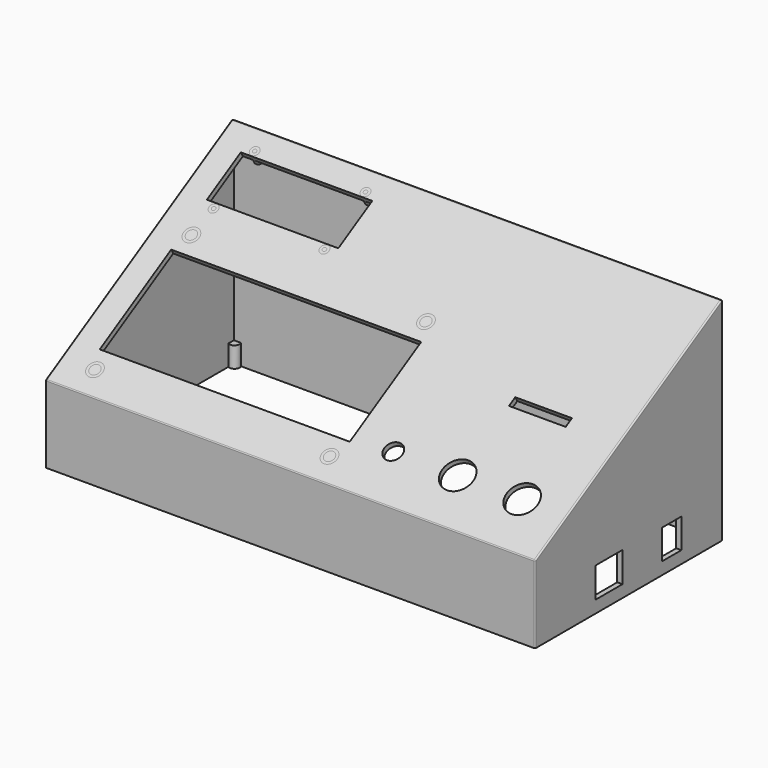
from build123d import *

# Parameters (mm, degrees)
F1_DEPTH  = 190
F2_T      = -2
F3_W      = 51
F3_H      = 19
F3_W_2    = 97
F3_H_2    = 40
F4_DEPTH  = 2
F5_R      = 3.5
F5_R_2    = 6
F6_DEPTH  = 2
F7_W      = 9.5
F7_H      = 11.5
F7_W_2    = 13.1
F7_H_2    = 11.7
F8_DEPTH  = 2
F9_W      = 22
F9_H      = 3.5
F10_DEPTH = 2
F11_R     = 1.75
F11_R_2   = 0.75
F12_DEPTH = 4.5
F13_R     = 3
F13_R_2   = 2
F14_DEPTH = 4.5
F15_R     = 2
F16_DEPTH = 8
F17_R     = 0.5


with BuildPart() as f1:
    # F0 (on Right) → F1 (new body)
    with BuildSketch(Plane.YZ):
        Polygon((0, 30), (0, 0), (90.9326673974, 0), (90.9326673974, 82.5), align=None)
    extrude(amount=F1_DEPTH)

    # F2
    f2_openings = [f1.faces().sort_by_distance(p)[0] for p in [
        (95, 45.466334, 0),
    ]]
    offset(amount=F2_T, openings=f2_openings)

    # F3 (on face) → F4 (cut)
    with BuildSketch(Plane(origin=(0, -12.9903810568, 22.5), x_dir=(1, 0, 0), z_dir=(0, -0.5, 0.8660254038))):
        with Locations((35.5, 100.5)):
            Rectangle(F3_W, F3_H)
        with Locations((58.5, 51)):
            Rectangle(F3_W_2, F3_H_2)
    extrude(amount=-F4_DEPTH, mode=Mode.SUBTRACT)

    # F5 (on face) → F6 (cut)
    with BuildSketch(Plane(origin=(0, -12.9903810568, 22.5), x_dir=(1, 0, 0), z_dir=(0, -0.5, 0.8660254038))):
        with Locations((122.5, 33)):
            Circle(F5_R)
        with Locations((147.5, 33)):
            Circle(F5_R_2)
        with Locations((172.5, 33)):
            Circle(F5_R_2)
    extrude(amount=-F6_DEPTH, mode=Mode.SUBTRACT)

    # F7 (on face) → F8 (cut)
    with BuildSketch(Plane.YZ.offset(190)):
        with Locations((66.1826673974, 10.5)):
            Rectangle(F7_W, F7_H)
        with Locations((35.7826673974, 10.6)):
            Rectangle(F7_W_2, F7_H_2)
    extrude(amount=-F8_DEPTH, mode=Mode.SUBTRACT)

    # F9 (on face) → F10 (cut)
    with BuildSketch(Plane(origin=(0, -12.9903810568, 22.5), x_dir=(1, 0, 0), z_dir=(0, -0.5, 0.8660254038))):
        with Locations((159, 62.75)):
            Rectangle(F9_W, F9_H)
    extrude(amount=-F10_DEPTH, mode=Mode.SUBTRACT)

    # F11 (on face) → F12 (join)
    with BuildSketch(Plane(origin=(0, -12.9903810568, 22.5), x_dir=(1, 0, 0), z_dir=(0, -0.5, 0.8660254038))):
        with Locations((14, 112)):
            Circle(F11_R)
        with Locations((14, 112)):
            Circle(F11_R_2, mode=Mode.SUBTRACT)
        with Locations((14, 89)):
            Circle(F11_R)
        with Locations((14, 89)):
            Circle(F11_R_2, mode=Mode.SUBTRACT)
        with Locations((57, 112)):
            Circle(F11_R)
        with Locations((57, 112)):
            Circle(F11_R_2, mode=Mode.SUBTRACT)
        with Locations((57, 89)):
            Circle(F11_R)
        with Locations((57, 89)):
            Circle(F11_R_2, mode=Mode.SUBTRACT)
    extrude(amount=-F12_DEPTH)

    # F13 (on face) → F14 (join)
    with BuildSketch(Plane(origin=(0, -12.9903810568, 22.5), x_dir=(1, 0, 0), z_dir=(0, -0.5, 0.8660254038))):
        with Locations((13, 78)):
            Circle(F13_R)
        with Locations((13, 78)):
            Circle(F13_R_2, mode=Mode.SUBTRACT)
        with Locations((104, 78)):
            Circle(F13_R)
        with Locations((104, 78)):
            Circle(F13_R_2, mode=Mode.SUBTRACT)
        with Locations((104, 24)):
            Circle(F13_R)
        with Locations((104, 24)):
            Circle(F13_R_2, mode=Mode.SUBTRACT)
        with Locations((13, 24)):
            Circle(F13_R)
        with Locations((13, 24)):
            Circle(F13_R_2, mode=Mode.SUBTRACT)
    extrude(amount=-F14_DEPTH)

    # F15 (on face) → F16 (join)
    with BuildSketch(Plane(origin=(0, 0, 0), x_dir=(1, 0, 0), z_dir=(0, 0, -1))):
        with Locations((3, -3)):
            Circle(F15_R)
        with Locations((3, -87.9326673974)):
            Circle(F15_R)
        with Locations((187, -3)):
            Circle(F15_R)
        with Locations((187, -87.9326673974)):
            Circle(F15_R)
    extrude(amount=-F16_DEPTH)

    # F17
    f17_edges = [f1.edges().sort_by_distance(p)[0] for p in [
        (190, 45.466334, 56.25),
        (0, 45.466334, 56.25),
        (95, 0, 30),
        (0, 0, 15),
        (190, 90.932667, 41.25),
        (0, 90.932667, 41.25),
        (95, 90.932667, 82.5),
        (95, 88.932667, 79.035898),
        (190, 0, 15),
    ]]
    fillet(f17_edges, radius=F17_R)


solid = f1.part
